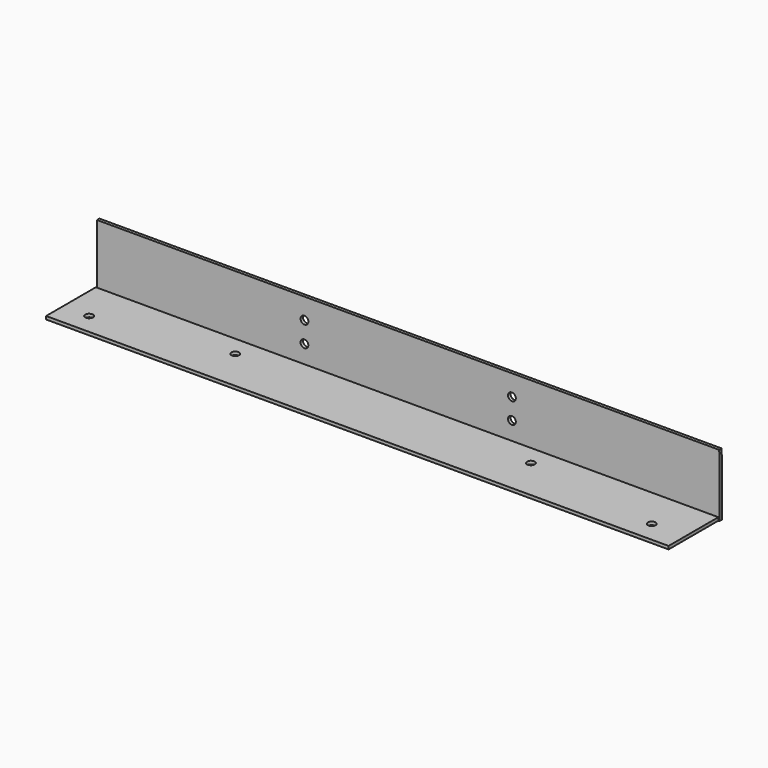
from build123d import *

# Parameters (mm, degrees)
F0_W     = 84.6666666667
F0_H     = 8.6337717066
F0_H_2   = 8.4666666667
F2_DEPTH = 1.27
F1_W     = 254
F1_H     = 25.4
F3_DEPTH = 1.27
F4_D     = 3.175
F6_D     = 3.175


with BuildPart() as f2:
    # F0 (on Front) → F2 (new body)
    with BuildSketch(Plane.XZ):
        Polygon((-131.8037787787, 25.56710504), (-131.8037787787, 0), (-47.137112112, 0), (-47.137112112, 8.6337717066), (-47.137112112, 17.1004383733), (-47.137112112, 25.56710504), align=None)
        with Locations((-4.8037787787, 4.3168858533)):
            Rectangle(F0_W, F0_H)
        Polygon((37.5295545547, 8.6337717066), (37.5295545547, 0), (122.1962212213, 0), (122.1205368638, 25.56710504), (37.5295545547, 25.56710504), (37.5295545547, 17.1004383733), align=None)
        Polygon((-131.8037787787, 25.56710504), (-131.8037787787, 0), (-47.137112112, 0), (-47.137112112, 8.6337717066), (-47.137112112, 17.1004383733), (-47.137112112, 25.56710504), align=None)
        with Locations((-4.8037787787, 21.3337717066)):
            Rectangle(F0_W, F0_H_2)
        with Locations((-4.8037787787, 12.86710504)):
            Rectangle(F0_W, F0_H_2)
        Polygon((37.5295545547, 8.6337717066), (37.5295545547, 0), (122.1962212213, 0), (122.1205368638, 25.56710504), (37.5295545547, 25.56710504), (37.5295545547, 17.1004383733), align=None)
    extrude(amount=-F2_DEPTH)

    # F1 (on Top) → F3 (join)
    with BuildSketch(Plane.XY):
        with Locations((-5.2391063539, -12.7)):
            Rectangle(F1_W, F1_H)
    extrude(amount=F3_DEPTH)

    # F4 (through all)
    with Locations(Plane.XZ):
        with Locations((-47.137112112, 8.6337717066), (37.5295545547, 8.6337717066), (37.5295545547, 17.1004383733), (-47.137112112, 17.1004383733)):
            Hole(F4_D / 2)

    # F6 (through all)
    with Locations(Plane.XY.offset(1.27)):
        with Locations((-121.5246990323, -16.8442111462), (-68.8691362739, -8.1213163212), (51.7873391509, -8.1213163212), (108.0535799265, -16.8442111462)):
            Hole(F6_D / 2)


solid = f2.part
